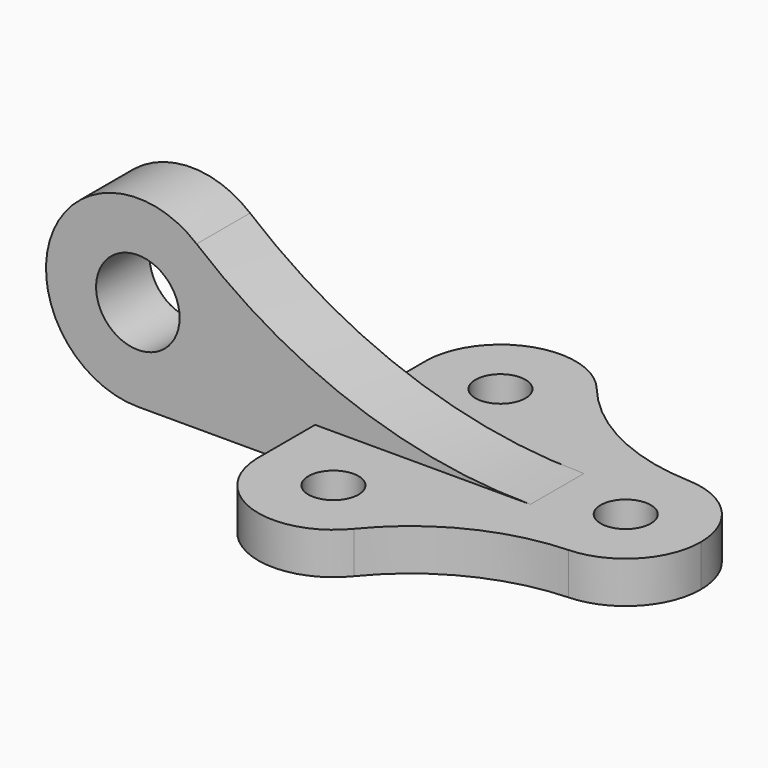
from build123d import *

# Parameters (mm, degrees)
F0_R     = 6
F1_DEPTH = 10
F2_R     = 10
F3_DEPTH = 8


with BuildPart() as f1:
    # F0 (on Top) → F1 (new body)
    with BuildSketch(Plane.XY):
        with BuildLine():
            ThreePointArc((0.720724, -17.985565), (12.980236, -12.470505), (18, 0))
            ThreePointArc((18, 0), (12.980236, 12.470505), (0.720724, 17.985565))
            ThreePointArc((0.720724, 17.985565), (-18, 0), (0.720724, -17.985565))
        make_face()
        Circle(F0_R, mode=Mode.SUBTRACT)
        with BuildLine():
            ThreePointArc((0.720724, -17.985565), (-18, 0), (0.720724, 17.985565))
            ThreePointArc((0.720724, 17.985565), (-19.637945, 23.224109), (-36.043982, 36.367918))
            ThreePointArc((-36.043982, 36.367918), (-33.041104, 31.032896), (-32, 25))
            ThreePointArc((-32, 25), (-49.804119, 7.001066), (-67.995737, 24.608261))
            Line((-67.995737, 24.608261), (-67.995737, -24.608261))
            ThreePointArc((-67.995737, -24.608261), (-49.804119, -7.001066), (-32, -25))
            ThreePointArc((-32, -25), (-33.041104, -31.032896), (-36.043982, -36.367918))
            ThreePointArc((-36.043982, -36.367918), (-19.637945, -23.224109), (0.720724, -17.985565))
        make_face()
        with BuildLine():
            ThreePointArc((-32, 25), (-33.041104, 31.032896), (-36.043982, 36.367918))
            ThreePointArc((-36.043982, 36.367918), (-55.847988, 42.023544), (-67.995737, 25.391739))
            Line((-67.995737, 25.391739), (-67.995737, 24.608261))
            ThreePointArc((-67.995737, 24.608261), (-49.804119, 7.001066), (-32, 25))
        make_face()
        with Locations((-50, 25)):
            Circle(F0_R, mode=Mode.SUBTRACT)
        with BuildLine():
            ThreePointArc((-67.995737, -25.391739), (-55.847988, -42.023544), (-36.043982, -36.367918))
            ThreePointArc((-36.043982, -36.367918), (-33.041104, -31.032896), (-32, -25))
            ThreePointArc((-32, -25), (-49.804119, -7.001066), (-67.995737, -24.608261))
            Line((-67.995737, -24.608261), (-67.995737, -25.391739))
        make_face()
        with Locations((-50, -25)):
            Circle(F0_R, mode=Mode.SUBTRACT)
        with BuildLine():
            Line((-67.995737, 24.608261), (-67.995737, 25.391739))
            ThreePointArc((-67.995737, 25.391739), (-68, 25), (-67.995737, 24.608261))
        make_face()
        with BuildLine():
            ThreePointArc((-67.995737, -24.608261), (-68, -25), (-67.995737, -25.391739))
            Line((-67.995737, -25.391739), (-67.995737, -24.608261))
        make_face()
    extrude(amount=F1_DEPTH)

    # F2 (on Front) → F3 (join, symmetric)
    with BuildSketch(Plane.XZ):
        with BuildLine():
            ThreePointArc((-16.430688, 10), (-58.939191, 17.449895), (-96.380751, 38.911565))
            ThreePointArc((-96.380751, 38.911565), (-131.140781, 29.481496), (-110.451962, 0))
            Line((-110.451962, 0), (-16.430688, 0))
            Line((-16.430688, 0), (-16.430688, 10))
        make_face()
        with Locations((-110.451962, 22)):
            Circle(F2_R, mode=Mode.SUBTRACT)
    extrude(amount=F3_DEPTH, both=True)


solid = f1.part
